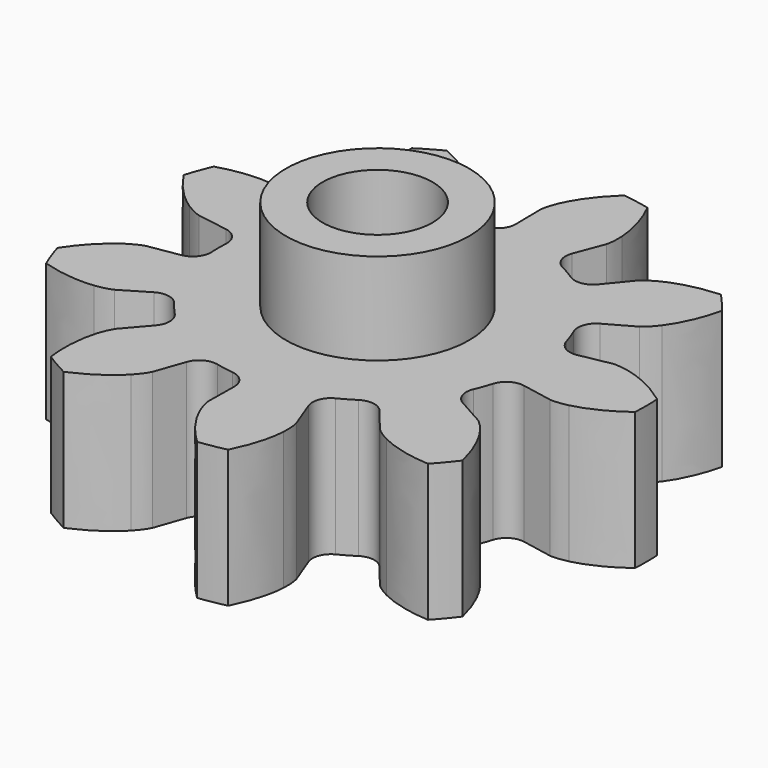
from build123d import *

# Parameters (mm, degrees)
CYLINDER002_R     = 1.2
CYLINDER002_DEPTH = 10
CYLINDER001_R     = 2
CYLINDER001_DEPTH = 2
CYLINDER_R        = 1.2
CYLINDER_DEPTH    = 10
EXTRUDE_DEPTH     = 3


with BuildPart() as cilindro_interior:
    # Cylinder002 → Cylinder002 (new body)
    with BuildSketch(Plane.XY.offset(-2)):
        Circle(CYLINDER002_R)
    extrude(amount=CYLINDER002_DEPTH)


with BuildPart() as cilindro_exterior:
    # Cylinder001 → Cylinder001 (new body)
    with BuildSketch(Plane.XY.offset(3)):
        Circle(CYLINDER001_R)
    extrude(amount=CYLINDER001_DEPTH)


with BuildPart() as cilindro:
    # Cylinder → Cylinder (new body)
    with BuildSketch(Plane.XY):
        Circle(CYLINDER_R)
    extrude(amount=CYLINDER_DEPTH)


with BuildPart() as engranaje_3_final:
    # InvoluteGear → Extrude (new body)
    with BuildSketch(Plane.XY):
        with BuildLine():
            Line((3.7783, -0.724438), (4.447599, -0.851782))
            add(Edge.make_bspline(
                [(4.447599, -0.851782), (4.489754, -0.856209), (4.616079, -0.86246), (4.83029, -0.812916)],
                knots=[0, 0, 0, 0, 1, 1, 1, 1], degree=3))
            add(Edge.make_bspline(
                [(4.83029, -0.812916), (5.084179, -0.752054), (5.442728, -0.61296), (5.862517, -0.301343)],
                knots=[0, 0, 0, 0, 1, 1, 1, 1], degree=3))
            ThreePointArc((5.862517, -0.301343), (5.870259, 0), (5.862517, 0.301343))
            add(Edge.make_bspline(
                [(5.862517, 0.301343), (5.442728, 0.61296), (5.084179, 0.752054), (4.83029, 0.812916)],
                knots=[0, 0, 0, 0, 1, 1, 1, 1], degree=3))
            add(Edge.make_bspline(
                [(4.83029, 0.812916), (4.616079, 0.86246), (4.489754, 0.856209), (4.447599, 0.851782)],
                knots=[0, 0, 0, 0, 1, 1, 1, 1], degree=3))
            Line((4.447599, 0.851782), (3.7783, 0.724438))
            ThreePointArc((3.7783, 0.724438), (3.496631, 0.774572), (3.320442, 0.999978))
            ThreePointArc((3.320442, 0.999978), (3.258619, 1.18604), (3.186379, 1.368311))
            ThreePointArc((3.186379, 1.368311), (3.17646, 1.654235), (3.360005, 1.873693))
            Line((3.360005, 1.873693), (3.954574, 2.206359))
            add(Edge.make_bspline(
                [(3.954574, 2.206359), (3.989711, 2.230064), (4.0905, 2.306476), (4.22275, 2.482121)],
                knots=[0, 0, 0, 0, 1, 1, 1, 1], degree=3))
            add(Edge.make_bspline(
                [(4.22275, 2.482121), (4.378118, 2.69194), (4.563375, 3.028964), (4.684648, 3.537511)],
                knots=[0, 0, 0, 0, 1, 1, 1, 1], degree=3))
            ThreePointArc((4.684648, 3.537511), (4.496879, 3.77333), (4.297249, 3.999195))
            add(Edge.make_bspline(
                [(4.297249, 3.999195), (3.775369, 3.968073), (3.411296, 3.844154), (3.177685, 3.727581)],
                knots=[0, 0, 0, 0, 1, 1, 1, 1], degree=3))
            add(Edge.make_bspline(
                [(3.177685, 3.727581), (2.981743, 3.627841), (2.888991, 3.541852), (2.859544, 3.511365)],
                knots=[0, 0, 0, 0, 1, 1, 1, 1], degree=3))
            Line((2.859544, 3.511365), (2.428686, 2.983595))
            ThreePointArc((2.428686, 2.983595), (2.18069, 2.840948), (1.900833, 2.900366))
            ThreePointArc((1.900833, 2.900366), (1.733875, 3.00316), (1.561375, 3.096353))
            ThreePointArc((1.561375, 3.096353), (1.369988, 3.309007), (1.369527, 3.595101))
            Line((1.369527, 3.595101), (1.611159, 4.23212))
            add(Edge.make_bspline(
                [(1.611159, 4.23212), (1.622839, 4.272865), (1.650931, 4.396186), (1.639337, 4.615746)],
                knots=[0, 0, 0, 0, 1, 1, 1, 1], degree=3))
            add(Edge.make_bspline(
                [(1.639337, 4.615746), (1.623487, 4.876346), (1.548767, 5.253602), (1.31478, 5.721125)],
                knots=[0, 0, 0, 0, 1, 1, 1, 1], degree=3))
            ThreePointArc((1.31478, 5.721125), (1.01936, 5.781076), (0.721251, 5.82578))
            add(Edge.make_bspline(
                [(0.721251, 5.82578), (0.341472, 5.46648), (0.14223, 5.137532), (0.038205, 4.898069)],
                knots=[0, 0, 0, 0, 1, 1, 1, 1], degree=3))
            add(Edge.make_bspline(
                [(0.038205, 4.898069), (-0.047784, 4.695715), (-0.063564, 4.570223), (-0.066524, 4.527941)],
                knots=[0, 0, 0, 0, 1, 1, 1, 1], degree=3))
            Line((-0.066524, 4.527941), (-0.057337, 3.846696))
            ThreePointArc((-0.057337, 3.846696), (-0.155621, 3.578013), (-0.408197, 3.443641))
            ThreePointArc((-0.408197, 3.443641), (-0.602168, 3.415067), (-0.794215, 3.375576))
            ThreePointArc((-0.794215, 3.375576), (-1.077516, 3.415458), (-1.261768, 3.634322))
            Line((-1.261768, 3.634322), (-1.486135, 4.277625))
            add(Edge.make_bspline(
                [(-1.486135, 4.277625), (-1.503378, 4.316345), (-1.561127, 4.428871), (-1.711139, 4.589612)],
                knots=[0, 0, 0, 0, 1, 1, 1, 1], degree=3))
            add(Edge.make_bspline(
                [(-1.711139, 4.589612), (-1.890791, 4.779055), (-2.190525, 5.020021), (-2.670288, 5.22776)],
                knots=[0, 0, 0, 0, 1, 1, 1, 1], degree=3))
            ThreePointArc((-2.670288, 5.22776), (-2.935129, 5.083793), (-3.192229, 4.926417))
            add(Edge.make_bspline(
                [(-3.192229, 4.926417), (-3.252203, 4.407061), (-3.193388, 4.027001), (-3.119151, 3.776696)],
                knots=[0, 0, 0, 0, 1, 1, 1, 1], degree=3))
            add(Edge.make_bspline(
                [(-3.119151, 3.776696), (-3.054952, 3.566412), (-2.986375, 3.460136), (-2.961465, 3.425843)],
                knots=[0, 0, 0, 0, 1, 1, 1, 1], degree=3))
            Line((-2.961465, 3.425843), (-2.516531, 2.909885))
            ThreePointArc((-2.516531, 2.909885), (-2.419115, 2.640885), (-2.526227, 2.375598))
            ThreePointArc((-2.526227, 2.375598), (-2.656451, 2.229027), (-2.778182, 2.07533))
            ThreePointArc((-2.778182, 2.07533), (-3.020839, 1.923778), (-3.302668, 1.973003))
            Line((-3.302668, 1.973003), (-3.888049, 2.321582))
            add(Edge.make_bspline(
                [(-3.888049, 2.321582), (-3.926148, 2.340159), (-4.042717, 2.389239), (-4.260955, 2.415948)],
                knots=[0, 0, 0, 0, 1, 1, 1, 1], degree=3))
            add(Edge.make_bspline(
                [(-4.260955, 2.415948), (-4.520348, 2.445591), (-4.904847, 2.437516), (-5.405899, 2.288268)],
                knots=[0, 0, 0, 0, 1, 1, 1, 1], degree=3))
            ThreePointArc((-5.405899, 2.288268), (-5.516239, 2.007747), (-5.612029, 1.721929))
            add(Edge.make_bspline(
                [(-5.612029, 1.721929), (-5.324136, 1.285529), (-5.034783, 1.032192), (-4.817022, 0.888166)],
                knots=[0, 0, 0, 0, 1, 1, 1, 1], degree=3))
            add(Edge.make_bspline(
                [(-4.817022, 0.888166), (-4.632674, 0.768345), (-4.511829, 0.731013), (-4.470703, 0.720755)],
                knots=[0, 0, 0, 0, 1, 1, 1, 1], degree=3))
            Line((-4.470703, 0.720755), (-3.798212, 0.611506))
            ThreePointArc((-3.798212, 0.611506), (-3.550678, 0.468059), (-3.462207, 0.195986))
            ThreePointArc((-3.462207, 0.195986), (-3.46775, 0), (-3.462207, -0.195986))
            ThreePointArc((-3.462207, -0.195986), (-3.550678, -0.468059), (-3.798212, -0.611506))
            Line((-3.798212, -0.611506), (-4.470703, -0.720755))
            add(Edge.make_bspline(
                [(-4.470703, -0.720755), (-4.511829, -0.731013), (-4.632674, -0.768345), (-4.817022, -0.888166)],
                knots=[0, 0, 0, 0, 1, 1, 1, 1], degree=3))
            add(Edge.make_bspline(
                [(-4.817022, -0.888166), (-5.034783, -1.032192), (-5.324136, -1.285529), (-5.612029, -1.721929)],
                knots=[0, 0, 0, 0, 1, 1, 1, 1], degree=3))
            ThreePointArc((-5.612029, -1.721929), (-5.516239, -2.007747), (-5.405899, -2.288268))
            add(Edge.make_bspline(
                [(-5.405899, -2.288268), (-4.904847, -2.437516), (-4.520348, -2.445591), (-4.260955, -2.415948)],
                knots=[0, 0, 0, 0, 1, 1, 1, 1], degree=3))
            add(Edge.make_bspline(
                [(-4.260955, -2.415948), (-4.042717, -2.389239), (-3.926148, -2.340159), (-3.888049, -2.321582)],
                knots=[0, 0, 0, 0, 1, 1, 1, 1], degree=3))
            Line((-3.888049, -2.321582), (-3.302668, -1.973003))
            ThreePointArc((-3.302668, -1.973003), (-3.020839, -1.923778), (-2.778182, -2.07533))
            ThreePointArc((-2.778182, -2.07533), (-2.656451, -2.229027), (-2.526227, -2.375598))
            ThreePointArc((-2.526227, -2.375598), (-2.419115, -2.640885), (-2.516531, -2.909885))
            Line((-2.516531, -2.909885), (-2.961465, -3.425843))
            add(Edge.make_bspline(
                [(-2.961465, -3.425843), (-2.986375, -3.460136), (-3.054952, -3.566412), (-3.119151, -3.776696)],
                knots=[0, 0, 0, 0, 1, 1, 1, 1], degree=3))
            add(Edge.make_bspline(
                [(-3.119151, -3.776696), (-3.193388, -4.027001), (-3.252203, -4.407061), (-3.192229, -4.926417)],
                knots=[0, 0, 0, 0, 1, 1, 1, 1], degree=3))
            ThreePointArc((-3.192229, -4.926417), (-2.935129, -5.083793), (-2.670288, -5.22776))
            add(Edge.make_bspline(
                [(-2.670288, -5.22776), (-2.190525, -5.020021), (-1.890791, -4.779055), (-1.711139, -4.589612)],
                knots=[0, 0, 0, 0, 1, 1, 1, 1], degree=3))
            add(Edge.make_bspline(
                [(-1.711139, -4.589612), (-1.561127, -4.428871), (-1.503378, -4.316345), (-1.486135, -4.277625)],
                knots=[0, 0, 0, 0, 1, 1, 1, 1], degree=3))
            Line((-1.486135, -4.277625), (-1.261768, -3.634322))
            ThreePointArc((-1.261768, -3.634322), (-1.077516, -3.415458), (-0.794215, -3.375576))
            ThreePointArc((-0.794215, -3.375576), (-0.602168, -3.415067), (-0.408197, -3.443641))
            ThreePointArc((-0.408197, -3.443641), (-0.155621, -3.578013), (-0.057337, -3.846696))
            Line((-0.057337, -3.846696), (-0.066524, -4.527941))
            add(Edge.make_bspline(
                [(-0.066524, -4.527941), (-0.063564, -4.570223), (-0.047784, -4.695715), (0.038205, -4.898069)],
                knots=[0, 0, 0, 0, 1, 1, 1, 1], degree=3))
            add(Edge.make_bspline(
                [(0.038205, -4.898069), (0.14223, -5.137532), (0.341472, -5.46648), (0.721251, -5.82578)],
                knots=[0, 0, 0, 0, 1, 1, 1, 1], degree=3))
            ThreePointArc((0.721251, -5.82578), (1.01936, -5.781076), (1.31478, -5.721125))
            add(Edge.make_bspline(
                [(1.31478, -5.721125), (1.548767, -5.253602), (1.623487, -4.876346), (1.639337, -4.615746)],
                knots=[0, 0, 0, 0, 1, 1, 1, 1], degree=3))
            add(Edge.make_bspline(
                [(1.639337, -4.615746), (1.650931, -4.396186), (1.622839, -4.272865), (1.611159, -4.23212)],
                knots=[0, 0, 0, 0, 1, 1, 1, 1], degree=3))
            Line((1.611159, -4.23212), (1.369527, -3.595101))
            ThreePointArc((1.369527, -3.595101), (1.369988, -3.309007), (1.561375, -3.096353))
            ThreePointArc((1.561375, -3.096353), (1.733875, -3.00316), (1.900833, -2.900366))
            ThreePointArc((1.900833, -2.900366), (2.18069, -2.840948), (2.428686, -2.983595))
            Line((2.428686, -2.983595), (2.859544, -3.511365))
            add(Edge.make_bspline(
                [(2.859544, -3.511365), (2.888991, -3.541852), (2.981743, -3.627841), (3.177685, -3.727581)],
                knots=[0, 0, 0, 0, 1, 1, 1, 1], degree=3))
            add(Edge.make_bspline(
                [(3.177685, -3.727581), (3.411296, -3.844154), (3.775369, -3.968073), (4.297249, -3.999195)],
                knots=[0, 0, 0, 0, 1, 1, 1, 1], degree=3))
            ThreePointArc((4.297249, -3.999195), (4.496879, -3.77333), (4.684648, -3.537511))
            add(Edge.make_bspline(
                [(4.684648, -3.537511), (4.563375, -3.028964), (4.378118, -2.69194), (4.22275, -2.482121)],
                knots=[0, 0, 0, 0, 1, 1, 1, 1], degree=3))
            add(Edge.make_bspline(
                [(4.22275, -2.482121), (4.0905, -2.306476), (3.989711, -2.230064), (3.954574, -2.206359)],
                knots=[0, 0, 0, 0, 1, 1, 1, 1], degree=3))
            Line((3.954574, -2.206359), (3.360005, -1.873693))
            ThreePointArc((3.360005, -1.873693), (3.17646, -1.654235), (3.186379, -1.368311))
            ThreePointArc((3.186379, -1.368311), (3.258619, -1.18604), (3.320442, -0.999978))
            ThreePointArc((3.320442, -0.999978), (3.496631, -0.774572), (3.7783, -0.724438))
        make_face()
    extrude(amount=EXTRUDE_DEPTH)

    # Cut: cut Cilindro
    add(cilindro.part, mode=Mode.SUBTRACT)

    # Fusion: union Cilindro exterior
    add(cilindro_exterior.part)

    # Cut001: cut Cilindro interior
    add(cilindro_interior.part, mode=Mode.SUBTRACT)


solid = engranaje_3_final.part
